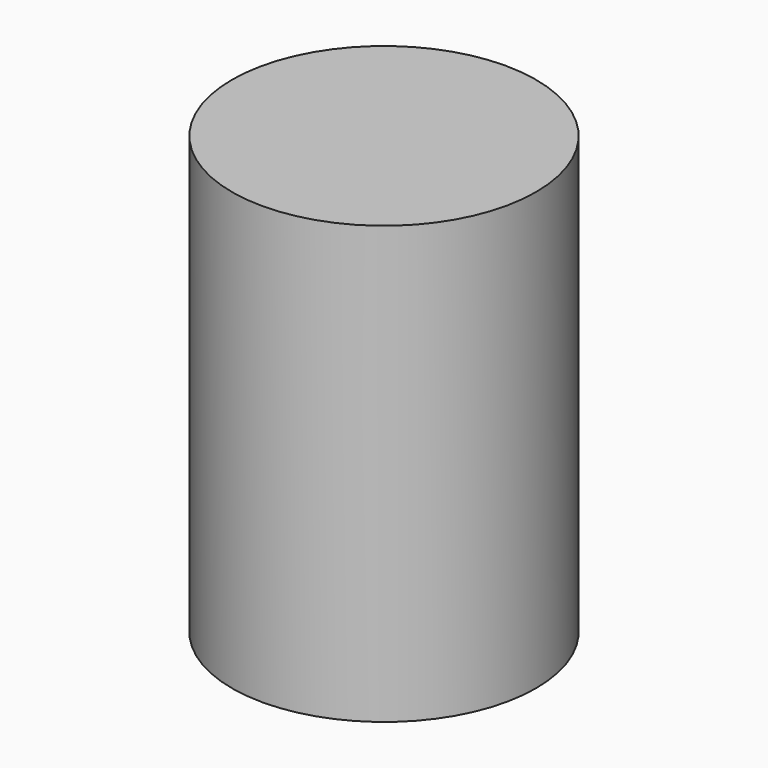
from build123d import *

# Parameters (mm, degrees)
CYLINDER_R     = 5.2197
CYLINDER_DEPTH = 15


with BuildPart() as part:
    # Cylinder → Cylinder (new body)
    with BuildSketch(Plane.XY.offset(-2.5)):
        Circle(CYLINDER_R)
    extrude(amount=CYLINDER_DEPTH)


solid = part.part
